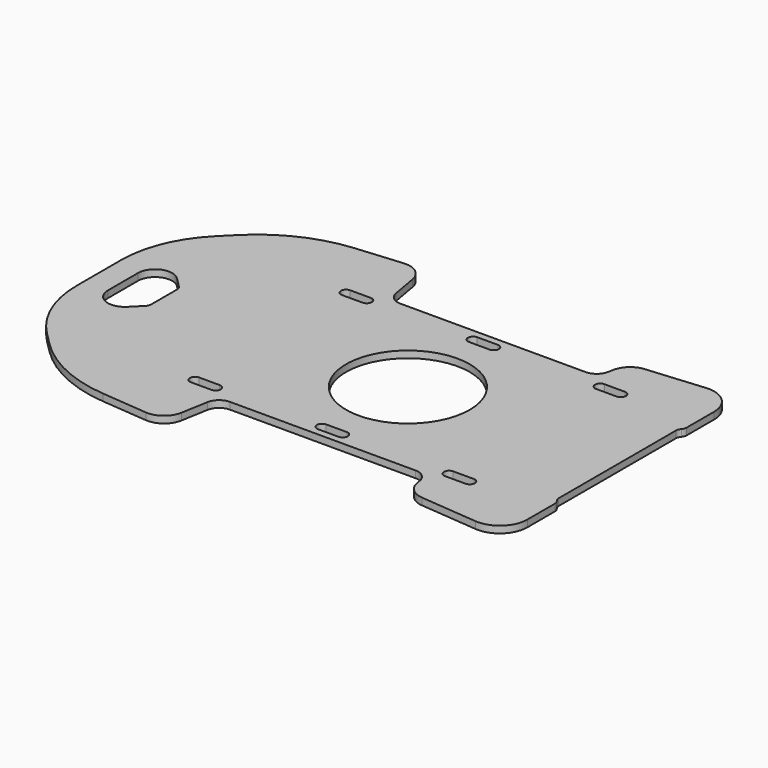
from build123d import *

# Parameters (mm, degrees)
PAD_DEPTH       = 1
SKETCH_R        = 9
POCKET_DEPTH    = 1.001
POCKET001_DEPTH = 1.001


with BuildPart() as part:
    # Sketch007 → Pad (new body)
    with BuildSketch(Plane.XY):
        with BuildLine():
            Line((13.5, 15.5), (-13.5, 15.5))
            ThreePointArc((-15.469616, 17.152704), (-14.785575, 15.967911), (-13.5, 15.5))
            Line((-15.469616, 17.152704), (-16.153704, 21.03236))
            ThreePointArc((-16.153704, 21.03236), (-17.281843, 22.891476), (-19.369594, 23.5))
            Line((-19.369594, 23.5), (-26.098892, 22.911263))
            ThreePointArc((-26.098892, 22.911263), (-32.808142, 21.113525), (-38.497913, 17.129504))
            Line((-40.313708, 15.313708), (-38.497913, 17.129504))
            ThreePointArc((-40.313708, 15.313708), (-43.782073, 10.122935), (-45, 4))
            Line((-45, 4), (-45, 0))
            Line((-45, 0), (30.5, 0))
            Line((30.5, 0), (30.5, 10.677124))
            ThreePointArc((30.75, 11.338562), (30.564586, 11.030678), (30.5, 10.677124))
            ThreePointArc((30.75, 11.338562), (30.935414, 11.646447), (31, 12))
            Line((31, 17.015221), (31, 12))
            ThreePointArc((31, 17.015221), (29.702361, 19.964331), (26.651377, 21))
            Line((18.276649, 20.267306), (26.651377, 21))
            ThreePointArc((18.276649, 20.267306), (16.511345, 19.490554), (15.583693, 17.799667))
            Line((15.583693, 17.799667), (15.469616, 17.152704))
            ThreePointArc((13.5, 15.5), (14.785575, 15.967911), (15.469616, 17.152704))
        make_face()
        with BuildLine():
            Line((-20, 13), (-17, 13))
            ThreePointArc((-17, 13), (-16.25, 13.75), (-17, 14.5))
            Line((-20, 14.5), (-17, 14.5))
            ThreePointArc((-20, 14.5), (-20.75, 13.75), (-20, 13))
        make_face(mode=Mode.SUBTRACT)
        with BuildLine():
            Line((-1.5, 13), (1.5, 13))
            ThreePointArc((1.5, 13), (2.25, 13.75), (1.5, 14.5))
            Line((-1.5, 14.5), (1.5, 14.5))
            ThreePointArc((-1.5, 14.5), (-2.25, 13.75), (-1.5, 13))
        make_face(mode=Mode.SUBTRACT)
        with BuildLine():
            Line((17, 13), (20, 13))
            ThreePointArc((20, 13), (20.75, 13.75), (20, 14.5))
            Line((17, 14.5), (20, 14.5))
            ThreePointArc((17, 14.5), (16.25, 13.75), (17, 13))
        make_face(mode=Mode.SUBTRACT)
    pad = extrude(amount=PAD_DEPTH)

    # Mirrored: Pad across Sketch007 H_Axis
    add(pad.mirror(Plane.ZX))

    # Sketch (on Face5 of Mirrored) → Pocket (cut, through all)
    with BuildSketch(Plane.XY.offset(1)):
        Circle(SKETCH_R)
    extrude(amount=-POCKET_DEPTH, mode=Mode.SUBTRACT)

    # Sketch008 → Pocket001 (cut, through all)
    with BuildSketch(Plane.XY):
        with BuildLine():
            Line((-41.5, 2.732233), (-41.5, -2.732233))
            ThreePointArc((-41.5, -2.732233), (-39.956709, -5.041932), (-37.232233, -4.5))
            Line((-35.792893, -3.06066), (-37.232233, -4.5))
            ThreePointArc((-35.792893, -3.06066), (-35.57612, -2.736237), (-35.5, -2.353553))
            Line((-35.5, 2.353553), (-35.5, -2.353553))
            ThreePointArc((-35.5, 2.353553), (-35.57612, 2.736237), (-35.792893, 3.06066))
            Line((-37.232233, 4.5), (-35.792893, 3.06066))
            ThreePointArc((-37.232233, 4.5), (-39.956709, 5.041932), (-41.5, 2.732233))
        make_face()
    extrude(amount=POCKET001_DEPTH, mode=Mode.SUBTRACT)


solid = part.part
